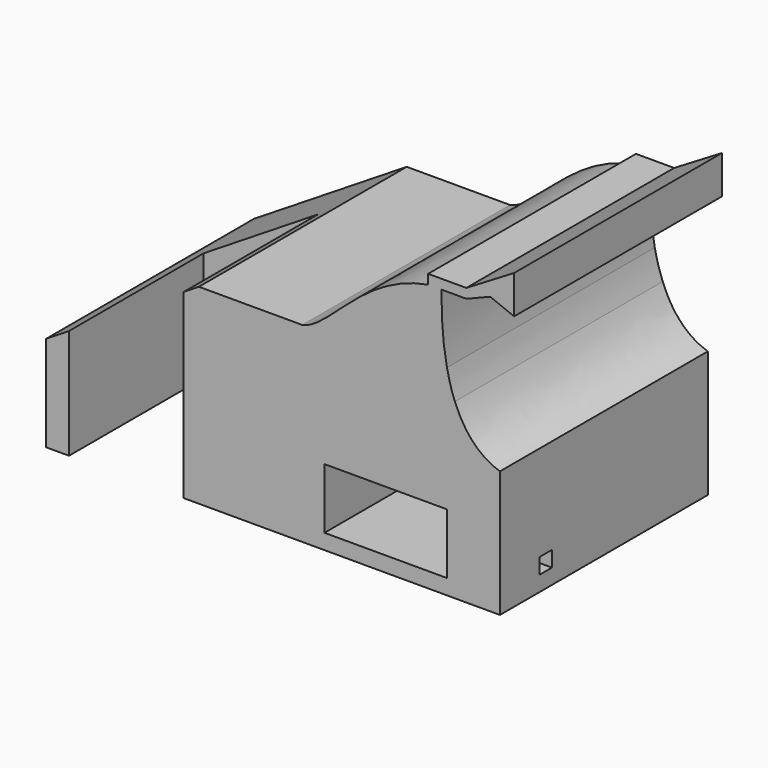
from build123d import *

# Parameters (mm, degrees)
F0_W      = 50.8
F0_H      = 86.36
F1_DEPTH  = 63.5
F2_W      = 20.32
F2_H      = 43.18
F2_W_2    = 17.78
F2_H_2    = 12.7
F3_DEPTH  = 228.6
F5_DEPTH  = 228.6
F6_W      = 86.36
F6_H      = 50.8
F6_H_2    = 63.5
F7_DEPTH  = 127
F9_W      = 127
F9_H      = 50.8
F10_DEPTH = 228.6
F12_DEPTH = 37.999924
F13_DEPTH = 86.36
F15_DEPTH = 101.6
F16_W     = 41.91
F16_H     = 22.225
F17_DEPTH = 228.6
F18_W     = 46.355
F18_H     = 86.36
F18_W_2   = 4.445
F19_DEPTH = 12.7
F20_W     = 12.7
F20_H     = 9.525
F20_W_2   = 3.175
F20_W_3   = 6.35
F20_H_2   = 3.175
F21_DEPTH = 228.6
F23_DEPTH = 228.6
F25_DEPTH = 59.69


with BuildPart() as f1:
    # F0 (on Top) → F1 (new body)
    with BuildSketch(Plane.XY):
        with Locations((0, 4.4812522829)):
            Rectangle(F0_W, F0_H)
    extrude(amount=F1_DEPTH)

    # F2 (on face) → F3 (cut)
    with BuildSketch(Plane.XY.offset(63.5)):
        with Locations((10.16, -17.1087477171)):
            Rectangle(F2_W, F2_H)
        with Locations((-8.89, -17.1087477171)):
            Rectangle(F2_W_2, F2_H)
        with Locations((-8.89, 10.8312522829)):
            Rectangle(F2_W_2, F2_H_2)
        with Locations((10.16, 10.8312522829)):
            Rectangle(F2_W, F2_H_2)
    extrude(amount=-F3_DEPTH, mode=Mode.SUBTRACT)

    # F4 (on face) → F5 (cut)
    with BuildSketch(Plane(origin=(0, 47.6612522829, 0), x_dir=(-1, 0, 0), z_dir=(0, 1, 0))):
        Polygon((-25.4, 63.5), (25.4, 31.75), (25.4, 63.5), align=None)
    extrude(amount=-F5_DEPTH, mode=Mode.SUBTRACT)

    # F6 (on face) → F7 (join)
    with BuildSketch(Plane.YZ.offset(25.4)):
        with Locations((4.4812522829, 88.9)):
            Rectangle(F6_W, F6_H)
        with Locations((4.4812522829, 31.75)):
            Rectangle(F6_W, F6_H_2)
    extrude(amount=F7_DEPTH)

    # F9 (on face) → F10 (cut)
    with BuildSketch(Plane.XZ.offset(38.6987477171)):
        with Locations((88.9, 88.9)):
            Rectangle(F9_W, F9_H)
    extrude(amount=-F10_DEPTH, mode=Mode.SUBTRACT)

    # F11 (on face) → F12 (cut)
    with BuildSketch(Plane.XZ.offset(38.6987477171)):
        Polygon((107.95, 5.08), (107.95, 13.3552532643), (107.95, 25.18000044), (67.1500054, 25.18000044), (67.1500054, 5.08), align=None)
    extrude(amount=-F12_DEPTH, mode=Mode.SUBTRACT)

    # F8 (on face) → F13 (join)
    with BuildSketch(Plane.XZ.offset(38.6987477171)):
        with BuildLine():
            Line((59.7608433873, 63.5), (101.6, 63.5))
            Line((101.6, 63.5), (101.6, 88.9))
            add(Edge.make_bspline(
                [(101.6, 88.9), (79.3954620772, 84.9506698417), (69.3900678517, 65.6088911006), (59.7608433873, 63.5)],
                knots=[0, 0, 0, 0, 0.338800951, 0.338800951, 0.338800951, 0.338800951], degree=3))
        make_face()
        Polygon((101.6, 88.9), (101.6, 63.5), (152.4, 63.5), (152.4, 114.3), (101.6, 114.3), align=None)
    extrude(amount=-F13_DEPTH)

    # F14 (on face) → F15 (cut)
    with BuildSketch(Plane.YZ.offset(152.4)):
        Polygon((47.6612522829, 114.3), (-38.6987477171, 114.3), (-38.6987477171, 88.9), (47.6612522829, 88.9), (47.6612522829, 101.6), align=None)
    extrude(amount=-F15_DEPTH, mode=Mode.SUBTRACT)

    # F16 (on face) → F17 (cut)
    with BuildSketch(Plane.XZ.offset(38.6987477171)):
        with BuildLine():
            Line((110.49, 88.9), (106.045, 88.9))
            add(Edge.make_bspline(
                [(106.045, 88.9), (105.9615328839, 79.9996478624), (106.6244970851, 72.6786467547), (107.8523208869, 66.675)],
                knots=[0, 0, 0, 0, 0.1081078186, 0.1081078186, 0.1081078186, 0.1081078186], degree=3))
            Line((107.8523208869, 66.675), (110.49, 66.675))
            Line((110.49, 66.675), (110.49, 88.9))
        make_face()
        with Locations((131.445, 77.7875)):
            Rectangle(F16_W, F16_H)
        with BuildLine():
            add(Edge.make_bspline(
                [(125.4735723701, 42.0280762083), (135.9858471133, 38.600025516), (147.748179628, 43.4285939835), (152.4, 44.45)],
                knots=[0.3864894569, 0.3864894569, 0.3864894569, 0.3864894569, 0.7739727648, 0.7739727648, 0.7739727648, 0.7739727648], degree=3))
            Line((125.4735723701, 42.0280762083), (125.4735723701, 0))
            Line((125.4735723701, 0), (152.4, 0))
            Line((152.4, 0), (152.4, 44.45))
        make_face()
        with BuildLine():
            Line((152.4, 66.675), (110.49, 66.675))
            Line((110.49, 66.675), (110.49, 57.590838654))
            add(Edge.make_bspline(
                [(110.49, 57.590838654), (114.1247988782, 48.4297517127), (119.6043502671, 43.9420283629), (125.4735723701, 42.0280762083)],
                knots=[0.1701494495, 0.1701494495, 0.1701494495, 0.1701494495, 0.3864894569, 0.3864894569, 0.3864894569, 0.3864894569], degree=3))
            add(Edge.make_bspline(
                [(125.4735723701, 42.0280762083), (135.9858471133, 38.600025516), (147.748179628, 43.4285939835), (152.4, 44.45)],
                knots=[0.3864894569, 0.3864894569, 0.3864894569, 0.3864894569, 0.7739727648, 0.7739727648, 0.7739727648, 0.7739727648], degree=3))
            Line((152.4, 44.45), (152.4, 66.675))
        make_face()
        with BuildLine():
            Line((110.49, 66.675), (107.8523208869, 66.675))
            add(Edge.make_bspline(
                [(107.8523208869, 66.675), (108.556952542, 63.2295874388), (109.4476183658, 60.2180400746), (110.49, 57.590838654)],
                knots=[0.1081078186, 0.1081078186, 0.1081078186, 0.1081078186, 0.1701494495, 0.1701494495, 0.1701494495, 0.1701494495], degree=3))
            Line((110.49, 57.590838654), (110.49, 66.675))
        make_face()
    extrude(amount=-F17_DEPTH, mode=Mode.SUBTRACT)

    # F18 (on face) → F19 (join)
    with BuildSketch(Plane.XY.offset(88.9)):
        with Locations((129.2225, 4.4812522829)):
            Rectangle(F18_W, F18_H)
        with Locations((103.8225, 4.4812522829)):
            Rectangle(F18_W_2, F18_H)
    extrude(amount=F19_DEPTH)

    # F20 (on face) → F21 (cut)
    with BuildSketch(Plane.XZ.offset(38.6987477171)):
        with Locations((107.95, 96.8375)):
            Rectangle(F20_W, F20_H)
        Polygon((127, 99.695), (127, 101.6), (114.3, 101.6), (114.3, 92.075), align=None)
        Polygon((127, 99.695), (130.175, 101.6), (127, 101.6), align=None)
        Polygon((127, 99.695), (130.175, 101.6), (127, 101.6), align=None)
        with Locations((131.7625, 96.8375)):
            Rectangle(F20_W_2, F20_H)
        Polygon((127, 99.695), (130.175, 101.6), (127, 101.6), align=None)
        with Locations((131.7625, 96.8375)):
            Rectangle(F20_W_2, F20_H)
        with Locations((136.525, 96.8375)):
            Rectangle(F20_W_3, F20_H)
        with Locations((131.7625, 90.4875)):
            Rectangle(F20_W_2, F20_H_2)
        with Locations((136.525, 90.4875)):
            Rectangle(F20_W_3, F20_H_2)
        Polygon((152.4, 95.25), (152.4, 101.6), (139.7, 101.6), (139.7, 92.075), (152.4, 92.075), align=None)
        with Locations((146.05, 90.4875)):
            Rectangle(F20_W, F20_H_2)
        Polygon((152.4, 95.25), (152.4, 101.6), (139.7, 101.6), (139.7, 92.075), (152.4, 92.075), align=None)
    extrude(amount=-F21_DEPTH, mode=Mode.SUBTRACT)

    # F22 (on face) → F23 (cut)
    with BuildSketch(Plane.XZ.offset(38.6987477171)):
        Polygon((122.2375, 92.075), (114.3, 88.9), (130.175, 88.9), align=None)
    extrude(amount=-F23_DEPTH, mode=Mode.SUBTRACT)

    # F24 (on face) → F25 (cut)
    with BuildSketch(Plane(origin=(107.95, 0, 0), x_dir=(0, -1, 0), z_dir=(-1, 0, 0))):
        Polygon((22.0737809671, 5.08), (22.2987805171, 5.08), (22.2987805171, 10.2799896), (17.0987909171, 10.2799896), (17.0987909171, 5.08), (17.3237904671, 5.08), (19.6987857171, 5.08), align=None)
    extrude(amount=-F25_DEPTH, mode=Mode.SUBTRACT)


solid = f1.part
